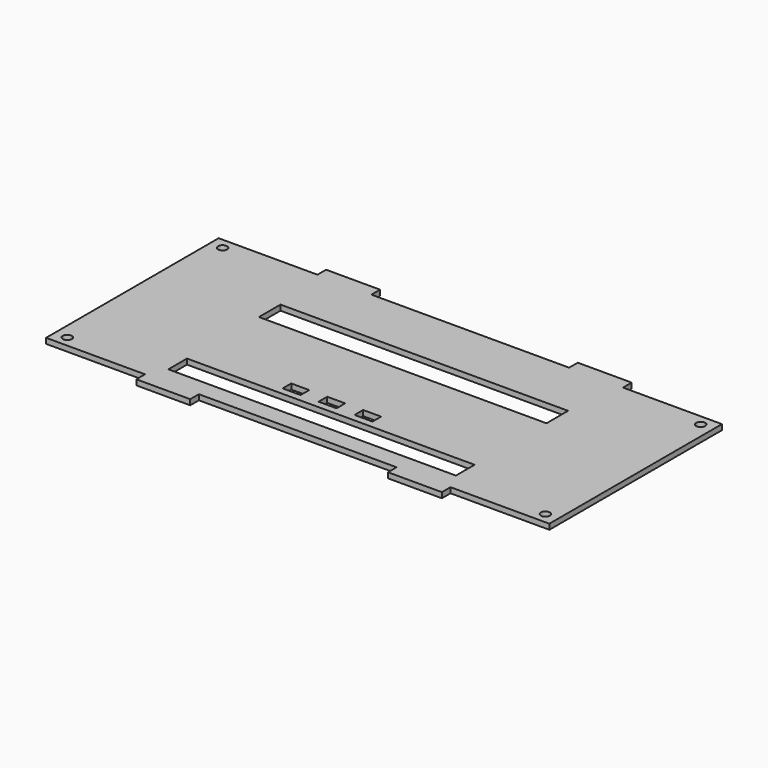
from build123d import *

# Parameters (mm, degrees)
F0_R     = 2.5
F0_W     = 10
F0_H     = 6
F0_W_2   = 160
F0_H_2   = 13
F1_DEPTH = 1.5


with BuildPart() as f1:
    # F0 (on Top) → F1 (new body, symmetric)
    with BuildSketch(Plane.XY):
        Polygon((140, -60), (140, 60), (85, 60), (85, 66), (55, 66), (55, 60), (-55, 60), (-55, 66), (-85, 66), (-85, 60), (-140, 60), (-140, -60), (-85, -60), (-85, -66), (-55, -66), (-55, -60), (55, -60), (55, -66), (85, -66), (85, -60), align=None)
        with Locations((-133, -54)):
            Circle(F0_R, mode=Mode.SUBTRACT)
        with Locations((-25, -30)):
            Rectangle(F0_W, F0_H, mode=Mode.SUBTRACT)
        with Locations((-5, -30)):
            Rectangle(F0_W, F0_H, mode=Mode.SUBTRACT)
        with Locations((0, -43.5)):
            Rectangle(F0_W_2, F0_H_2, mode=Mode.SUBTRACT)
        with Locations((133, -54)):
            Circle(F0_R, mode=Mode.SUBTRACT)
        with Locations((15, -30)):
            Rectangle(F0_W, F0_H, mode=Mode.SUBTRACT)
        with Locations((-133, 54)):
            Circle(F0_R, mode=Mode.SUBTRACT)
        Polygon((80, 13), (0, 13), (-80, 13), (-80, 23), (-80, 28), (80, 28), (80, 23), align=None, mode=Mode.SUBTRACT)
        with Locations((133, 54)):
            Circle(F0_R, mode=Mode.SUBTRACT)
    extrude(amount=F1_DEPTH, both=True)


solid = f1.part
